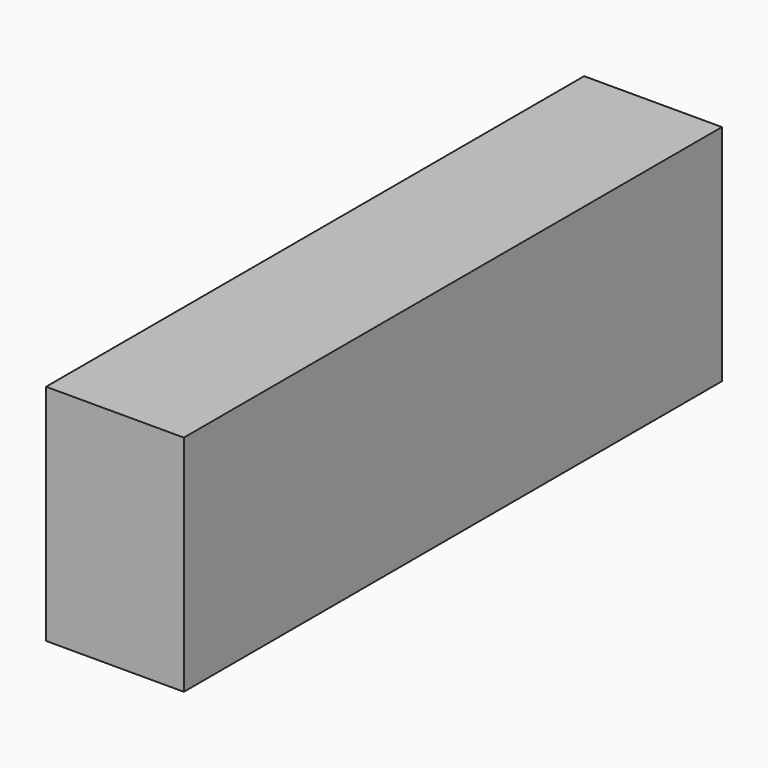
from build123d import *

# Parameters (mm, degrees)
F1_W     = 52.036576
F1_H     = 84.521844
F2_DEPTH = 127


with BuildPart() as f2:
    # F1 (on face) → F2 (new body, symmetric)
    with BuildSketch(Plane.XZ):
        Rectangle(F1_W, F1_H)
    extrude(amount=F2_DEPTH, both=True)


solid = f2.part
